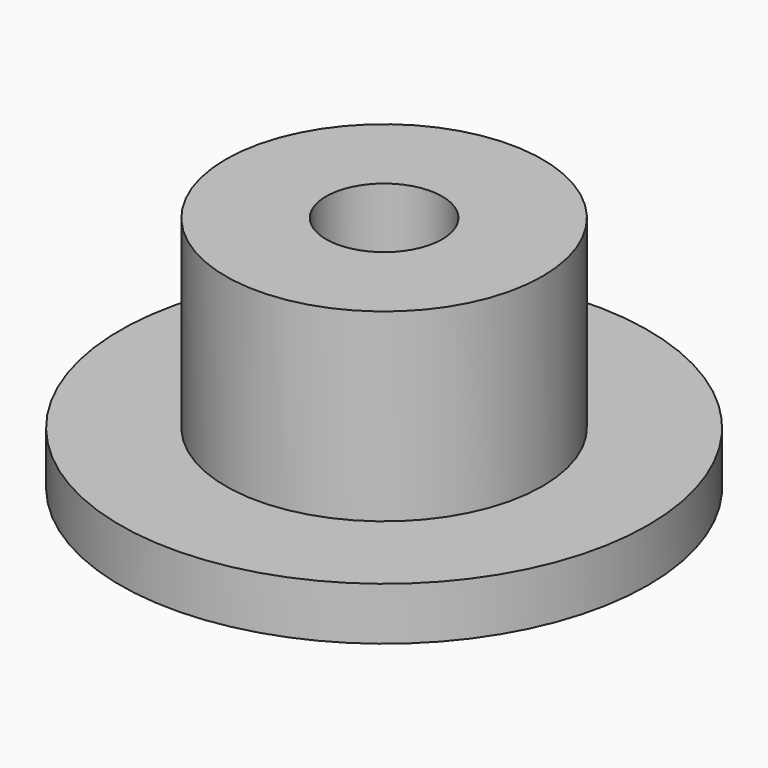
from build123d import *


with BuildPart() as part:
    # Sketch → Revolution (revolve)
    with BuildSketch(Plane.XZ):
        Polygon((2.2, 9), (6, 9), (6, 2), (10, 2), (10, 0), (4.65, 0), (4.65, 0.6), (4.1, 0.6), (4.1, 3), (2.2, 3), align=None)
    revolve(axis=Axis((0, 0, 0), (0, 0, 1)))


solid = part.part
